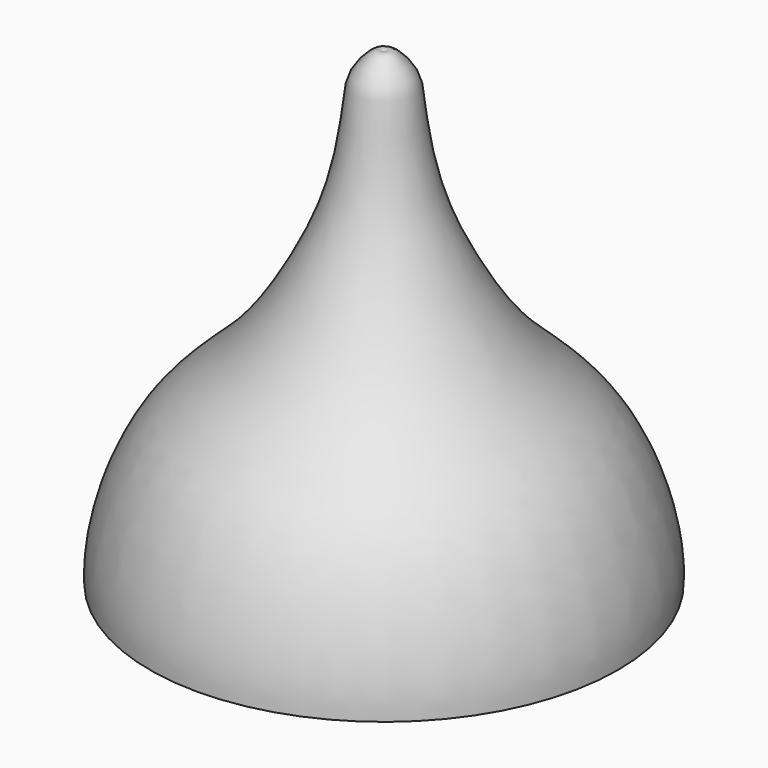
from build123d import *


with BuildPart() as f1:
    # F0 (on Front) → F1 (revolve)
    with BuildSketch(Plane.XZ):
        with BuildLine():
            add(Edge.make_bspline(
                [(10.4, 0), (10.5008042743, 1.679813962), (9.1067379161, 6.2284547472), (5.9193346241, 8.4096113166), (3.7955719523, 11.4590233173), (2.488293591, 14.0587291458), (1.7714840382, 16.2847806771), (1.4340961577, 18.5160764967), (1.3669896182, 19.7155456979), (0.8794289852, 20.4656296083), (0.265658463, 20.9946887161), (0, 20.8)],
                knots=[0.55019689, 0.55019689, 0.55019689, 0.55019689, 0.6118942697, 0.683028543, 0.7454263247, 0.801636685, 0.8525939124, 0.9021183243, 0.9375947934, 0.9694090225, 1, 1, 1, 1], degree=3))
            Line((0, 20.8), (0, 0))
            Line((0, 0), (10.4, 0))
        make_face()
    revolve(axis=Axis((0, 0, 10.4), (0, 0, -1)))


solid = f1.part
